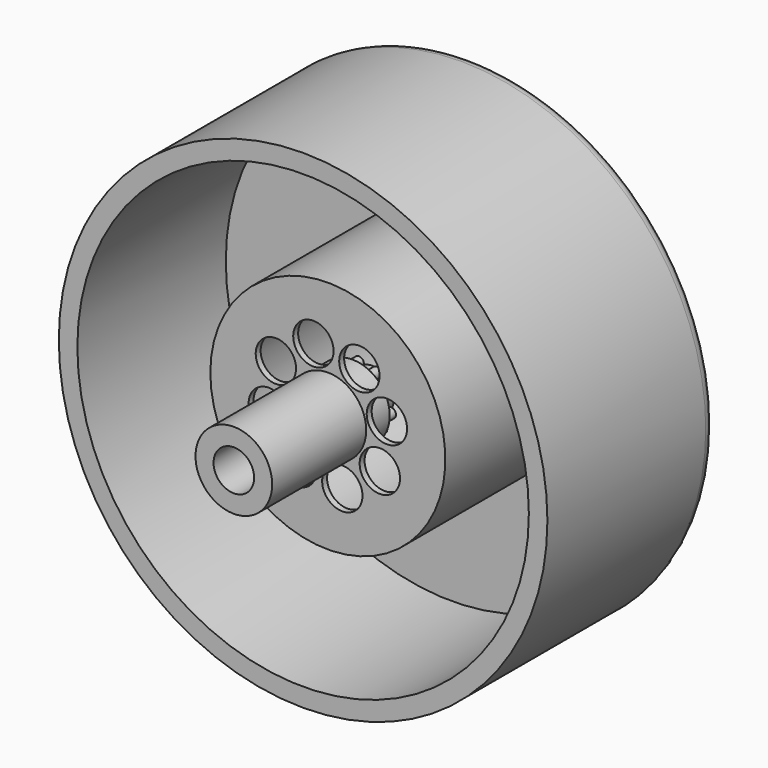
from build123d import *

# Parameters (mm, degrees)
F0_R      = 19.75
F1_DEPTH  = 17
F2_R      = 18.25
F3_DEPTH  = 15
F4_R      = 9.5
F5_DEPTH  = 14.5
F6_R      = 7.662352
F7_DEPTH  = 14
F8_R      = 3.1
F9_DEPTH  = 9.5
F10_R     = 1.640343
F11_DEPTH = 7
F12_R     = 1.631473
F13_DEPTH = 25.4
F14_R     = 3
F15_DEPTH = 2
F16_R     = 1.75
F17_DEPTH = 2
F18_R     = 0.4
F19_DEPTH = 1
F20_R     = 1


with BuildPart() as f1:
    # F0 (on Front) → F1 (new body)
    with BuildSketch(Plane.XZ):
        Circle(F0_R)
    extrude(amount=F1_DEPTH)

    # F2 (on face) → F3 (cut)
    with BuildSketch(Plane.XZ.offset(17)):
        Circle(F2_R)
    extrude(amount=-F3_DEPTH, mode=Mode.SUBTRACT)

    # F4 (on face) → F5 (join)
    with BuildSketch(Plane(origin=(0, 0, 0), x_dir=(-1, 0, 0), z_dir=(0, 1, 0))):
        Circle(F4_R)
    extrude(amount=-F5_DEPTH)

    # F6 (on face) → F7 (cut)
    with BuildSketch(Plane(origin=(0, 0, 0), x_dir=(-1, 0, 0), z_dir=(0, 1, 0))):
        Circle(F6_R)
    extrude(amount=-F7_DEPTH, mode=Mode.SUBTRACT)

    # F8 (on face) → F9 (join)
    with BuildSketch(Plane.XZ.offset(14.5)):
        Circle(F8_R)
    extrude(amount=F9_DEPTH)

    # F10 (on face) → F11 (cut)
    with BuildSketch(Plane.XZ.offset(24)):
        Circle(F10_R)
    extrude(amount=-F11_DEPTH, mode=Mode.SUBTRACT)

    # F12 (on face) → F13 (cut)
    with BuildSketch(Plane(origin=(0, -14, 0), x_dir=(-1, 0, 0), z_dir=(0, 1, 0))):
        with Locations((-2.547523, 4.201843)):
            Circle(F12_R)
        with Locations((1.169781, 4.772522)):
            Circle(F12_R)
        with Locations((4.201843, 2.547523)):
            Circle(F12_R)
        with Locations((4.772522, -1.169781)):
            Circle(F12_R)
        with Locations((2.547523, -4.201843)):
            Circle(F12_R)
        with Locations((-1.169781, -4.772522)):
            Circle(F12_R)
        with Locations((-4.201843, -2.547523)):
            Circle(F12_R)
        with Locations((-4.772522, 1.169781)):
            Circle(F12_R)
    extrude(amount=-F13_DEPTH, mode=Mode.SUBTRACT)

    # F14 (on face) → F15 (join)
    with BuildSketch(Plane(origin=(0, -14, 0), x_dir=(-1, 0, 0), z_dir=(0, 1, 0))):
        Circle(F14_R)
    extrude(amount=F15_DEPTH)

    # F16 (on face) → F17 (join)
    with BuildSketch(Plane(origin=(0, -12, 0), x_dir=(-1, 0, 0), z_dir=(0, 1, 0))):
        Circle(F16_R)
    extrude(amount=F17_DEPTH)

    # F18 (on face) → F19 (join)
    with BuildSketch(Plane(origin=(0, -12, 0), x_dir=(-1, 0, 0), z_dir=(0, 1, 0))):
        with Locations((0.285372, 2.338507)):
            Circle(F18_R)
        with Locations((1.60541, 1.724155)):
            Circle(F18_R)
        with Locations((2.312237, 0.451234)):
            Circle(F18_R)
        with Locations((2.135868, -0.994043)):
            Circle(F18_R)
        with Locations((1.14367, -2.059629)):
            Circle(F18_R)
        with Locations((-0.285372, -2.338507)):
            Circle(F18_R)
        with Locations((-2.312237, -0.451234)):
            Circle(F18_R)
        with Locations((-1.14367, 2.059629)):
            Circle(F18_R)
        with Locations((-2.135868, 0.994043)):
            Circle(F18_R)
        with Locations((-1.60541, -1.724155)):
            Circle(F18_R)
    extrude(amount=F19_DEPTH)

    # F20
    f20_edges = [f1.edges().sort_by_distance(p)[0] for p in [
        (-19.75, 0, 0),
    ]]
    fillet(f20_edges, radius=F20_R)


solid = f1.part
